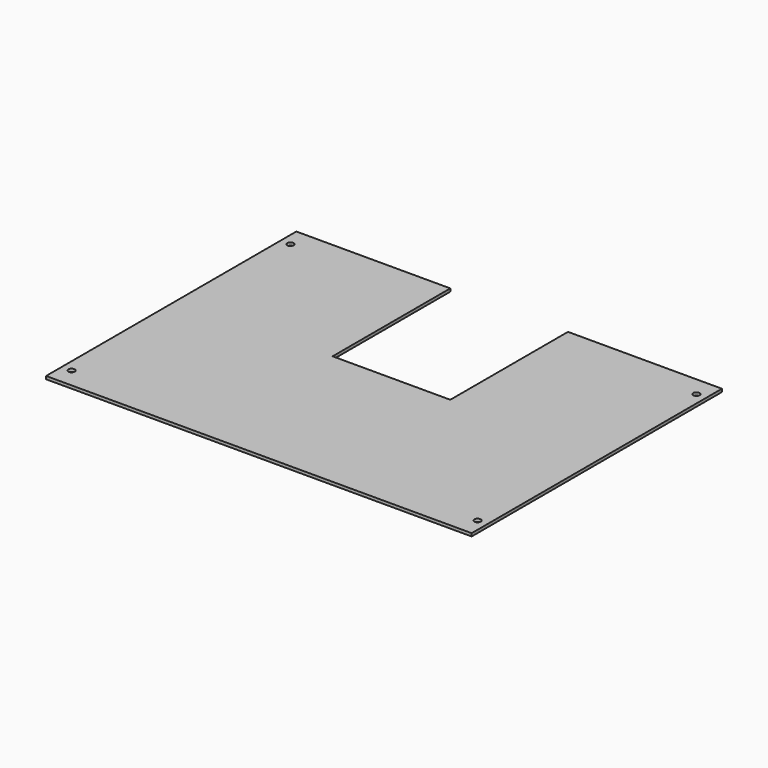
from build123d import *

# Parameters (mm, degrees)
F0_R     = 3.25
F1_DEPTH = 3


with BuildPart() as f1:
    # F0 (on Top) → F1 (new body)
    with BuildSketch(Plane.XY):
        Polygon((-60, 0), (-217, 0), (-217, -319), (217, -319), (217, 0), (60, 0), (60, -150), (-60, -150), align=None)
        with Locations((-207, -299)):
            Circle(F0_R, mode=Mode.SUBTRACT)
        with Locations((207, -299)):
            Circle(F0_R, mode=Mode.SUBTRACT)
        with Locations((-207, -20)):
            Circle(F0_R, mode=Mode.SUBTRACT)
        with Locations((207, -20)):
            Circle(F0_R, mode=Mode.SUBTRACT)
    extrude(amount=F1_DEPTH)


solid = f1.part
